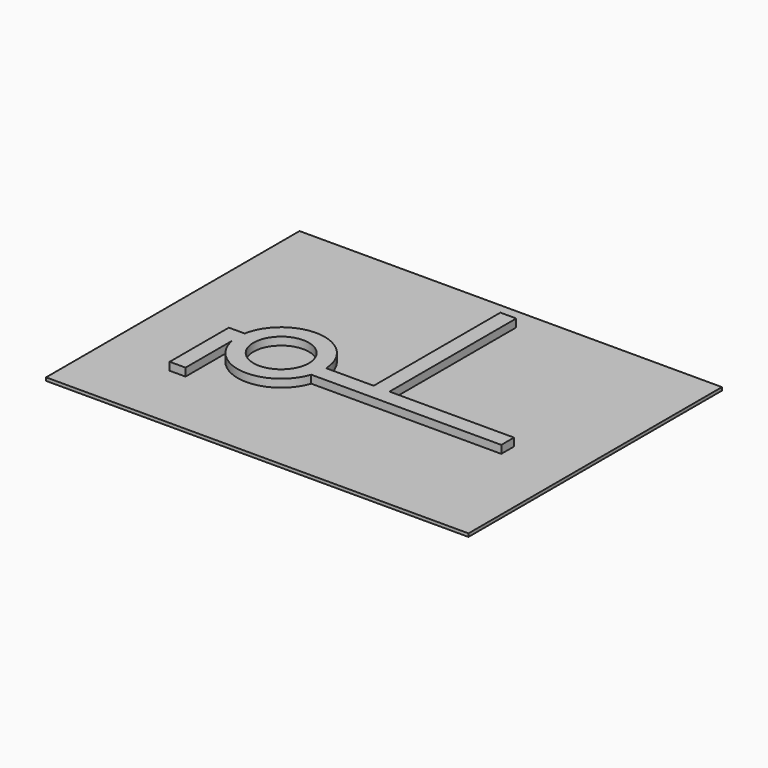
from build123d import *

# Parameters (mm, degrees)
F0_W     = 800
F0_H     = 600
F1_DEPTH = 6
F3_START = 10
F2_R     = 52.5
F3_DEPTH = 15


with BuildPart() as f1:
    # F0 (on Top) → F1 (new body)
    with BuildSketch(Plane.XY):
        with Locations((3.0003070796, 14.9015896022)):
            Rectangle(F0_W, F0_H)
    extrude(amount=F1_DEPTH)


with BuildPart() as f3:
    # F2 (on Top) → F3 (new body)
    with BuildSketch(Plane.XY.offset(F3_START)):
        with BuildLine():
            Line((-262.5744263002, -20.4566953906), (-262.5744263002, -160.4566953906))
            Line((-262.5744263002, -160.4566953906), (-232.5744263002, -160.4566953906))
            Line((-232.5744263002, -160.4566953906), (-232.5744263002, -50.4566953906))
            ThreePointArc((-232.5744263002, -50.4566953906), (-157.4110656341, -117.7410195641), (-73.3340005135, -61.9937488971))
            Line((-73.3340005135, -61.9937488971), (286.6659994865, -61.9937488971))
            Line((286.6659994865, -61.9937488971), (286.6659994865, -31.9937488971))
            Line((286.6659994865, -31.9937488971), (50.9777665779, -31.9937488971))
            Line((50.9777665779, -31.9937488971), (50.9777665779, 268.0062511029))
            Line((50.9777665779, 268.0062511029), (20.9777665779, 268.0062511029))
            Line((20.9777665779, 268.0062511029), (20.9777665779, -31.9937488971))
            Line((20.9777665779, -31.9937488971), (-69.0222334221, -31.9937488971))
            ThreePointArc((-69.0222334221, -31.9937488971), (-145.6443565505, 46.8388090255), (-232.5744263002, -20.4566953906))
            Line((-232.5744263002, -20.4566953906), (-262.5744263002, -20.4566953906))
        make_face()
        with Locations((-151.4495226022, -35.4566953906)):
            Circle(F2_R, mode=Mode.SUBTRACT)
    extrude(amount=F3_DEPTH)


solid = Compound([f1.part, f3.part])
